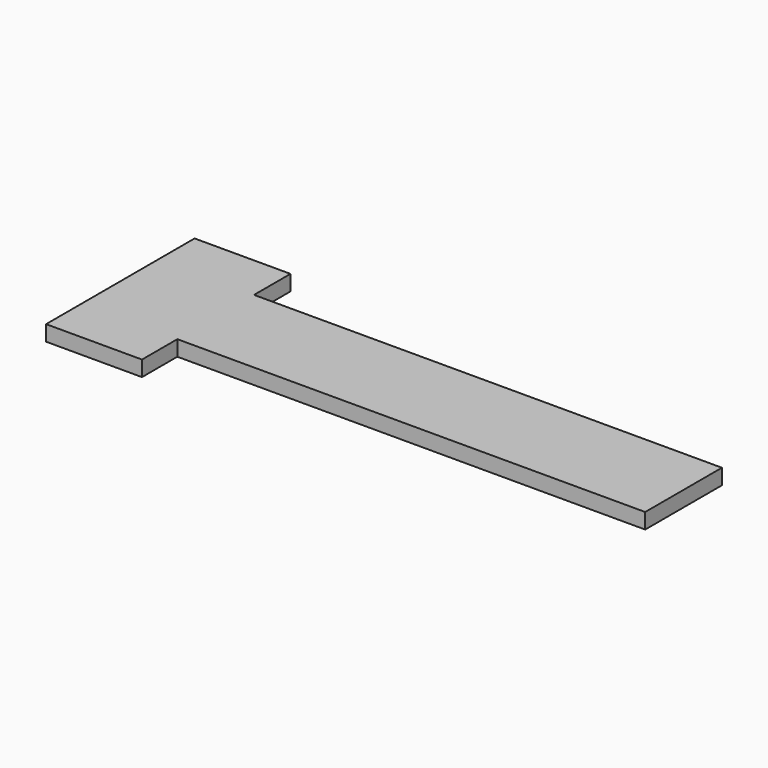
from build123d import *

# Parameters (mm, degrees)
F0_W     = 180
F0_H     = 31
F1_DEPTH = 2.5
F2_W     = 31
F2_H     = 60
F3_DEPTH = 2.5


with BuildPart() as f1:
    # F0 (on Top) → F1 (new body, symmetric)
    with BuildSketch(Plane.XY):
        with Locations((-21.178086, 7.692472)):
            Rectangle(F0_W, F0_H)
    extrude(amount=F1_DEPTH, both=True)

    # F2 (on Top) → F3 (join, symmetric)
    with BuildSketch(Plane.XY):
        with Locations((-97.912037, 7.913927)):
            Rectangle(F2_W, F2_H)
    extrude(amount=F3_DEPTH, both=True)


solid = f1.part
